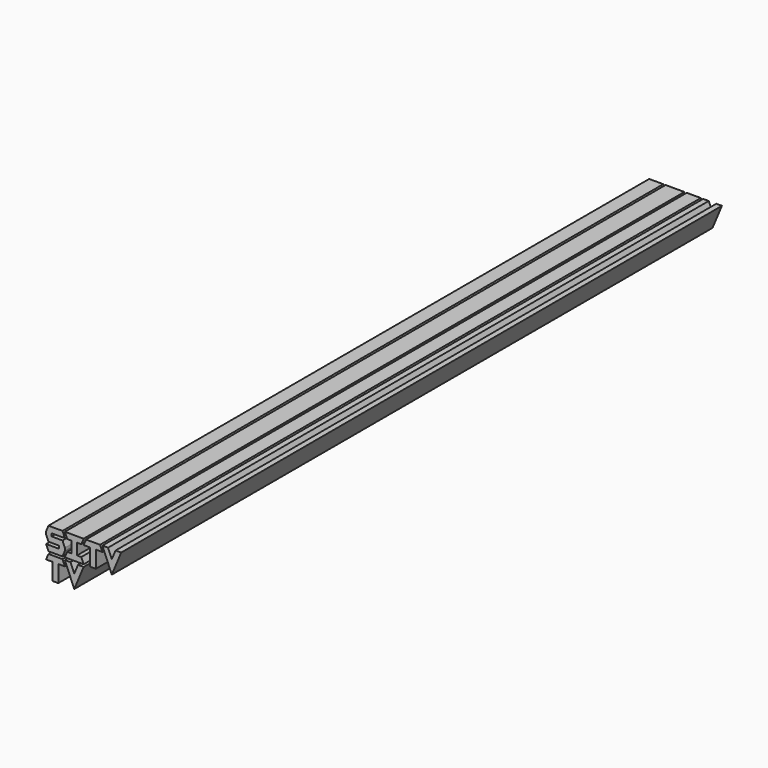
from build123d import *

# Parameters (mm, degrees)
F1_DEPTH = 2540


with BuildPart() as f1:
    # F0 (on Front) → F1 (new body)
    with BuildSketch(Plane.XZ):
        Polygon((0, 57.15), (-7.9375, 76.2), (-55.5625, 76.2), (-63.5, 57.15), (-63.5, 47.625), (-55.5625, 28.575), (-19.05, 28.575), (-19.05, 19.05), (-63.5, 19.05), (-55.5625, 0), (-7.9375, 0), (0, 19.05), (0, 28.575), (-7.9375, 47.625), (-44.45, 47.625), (-44.45, 57.15), align=None)
        Polygon((7.9375, 19.05), (0, 0), (63.5, 0), (55.5625, 19.05), (41.275, 19.05), (41.275, 57.15), (55.5625, 57.15), (63.5, 76.2), (0, 76.2), (7.9375, 57.15), (22.225, 57.15), (22.225, 19.05), align=None)
        Polygon((0, -26.9875), (-7.9375, -7.9375), (-55.5625, -7.9375), (-63.5, -26.9875), (-41.275, -26.9875), (-41.275, -84.1375), (-22.225, -84.1375), (-22.225, -26.9875), align=None)
        Polygon((19.05, -7.9375), (0, -7.9375), (31.75, -84.1375), (63.5, -7.9375), (44.45, -7.9375), (31.75, -38.4175), align=None)
        Polygon((71.4375, 76.2), (63.5, 57.15), (85.725, 57.15), (85.725, 0), (104.775, 0), (104.775, 57.15), (127, 57.15), (119.0625, 76.2), align=None)
        Polygon((146.05, 76.2), (127, 76.2), (158.75, 0), (190.5, 76.2), (171.45, 76.2), (158.75, 45.72), align=None)
    extrude(amount=-F1_DEPTH)


solid = f1.part
